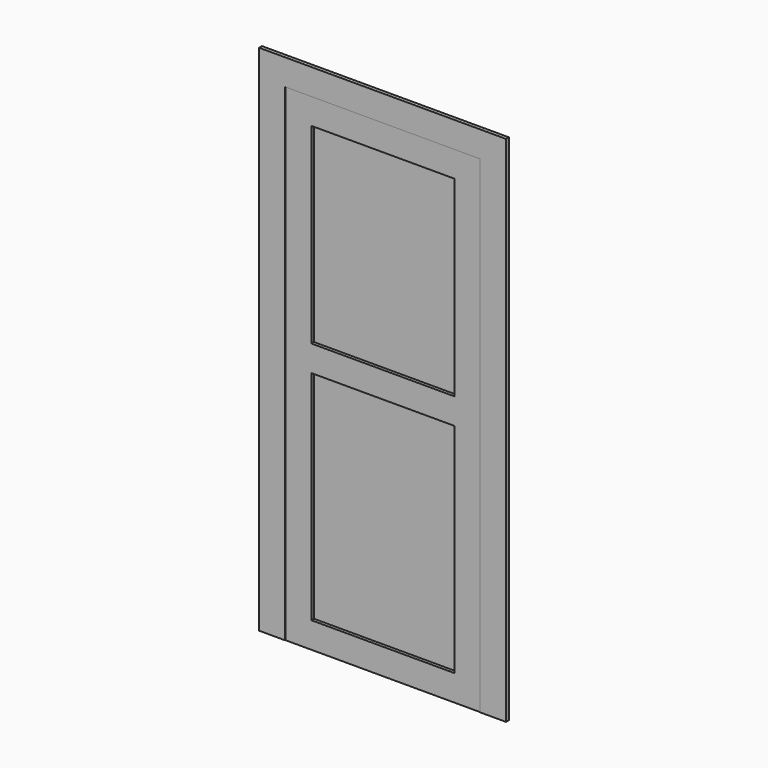
from build123d import *

# Parameters (mm, degrees)
F0_W     = 762
F0_H     = 1905
F0_W_2   = 558.8
F0_H_2   = 850.9
F0_H_3   = 749.3
F1_DEPTH = 12.7
F3_DEPTH = 13.97
F4_W     = 762
F4_H     = 1905
F5_DEPTH = 25.4


with BuildPart() as f1:
    # F0 (on Front) → F1 (new body)
    with BuildSketch(Plane.XZ):
        with Locations((381, 952.5)):
            Rectangle(F0_W, F0_H)
        with Locations((381, 527.05)):
            Rectangle(F0_W_2, F0_H_2, mode=Mode.SUBTRACT)
        with Locations((381, 1428.75)):
            Rectangle(F0_W_2, F0_H_3, mode=Mode.SUBTRACT)
    extrude(amount=F1_DEPTH)

    # F2 (on face) → F3 (join)
    with BuildSketch(Plane(origin=(0, 0, 0), x_dir=(-1, 0, 0), z_dir=(0, 1, 0))):
        Polygon((0, 1905), (0, 0), (101.6, 0), (101.6, 2006.6), (-863.6, 2006.6), (-863.6, 0), (-762, 0), (-762, 1905), align=None)
    extrude(amount=-F3_DEPTH)

    # F4 (on face) → F5 (join)
    with BuildSketch(Plane(origin=(0, 0, 0), x_dir=(-1, 0, 0), z_dir=(0, 1, 0))):
        with Locations((-381, 952.5)):
            Rectangle(F4_W, F4_H)
    extrude(amount=F5_DEPTH)


solid = f1.part
